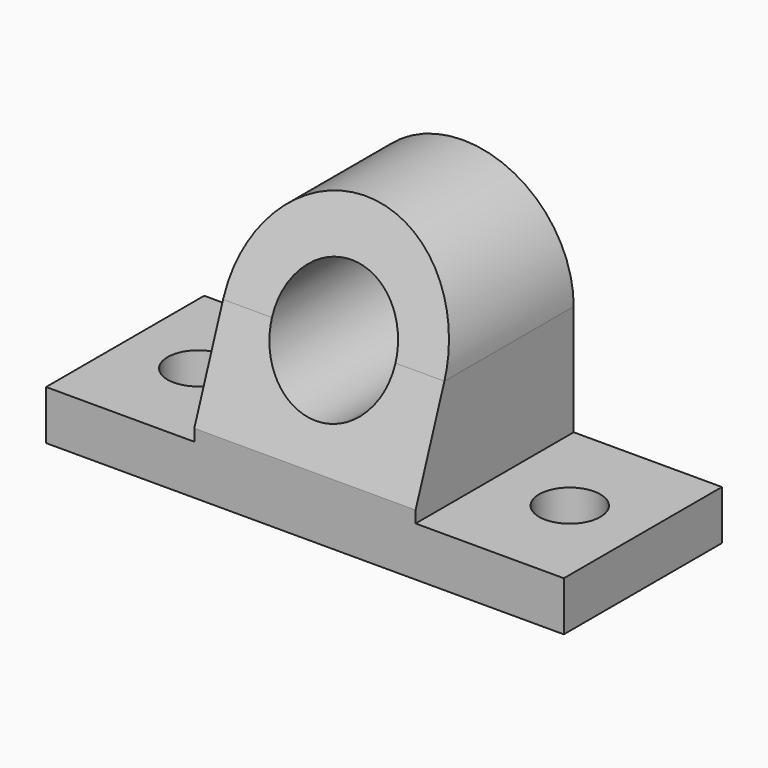
from build123d import *

# Parameters (mm, degrees)
F0_R     = 15.875
F1_DEPTH = 50.8
F2_R     = 7.874
F3_DEPTH = 12.7
F5_DEPTH = 76.2
F6_ANGLE = 180


with BuildPart() as f1:
    # F0 (on Front) → F1 (new body)
    with BuildSketch(Plane.XZ):
        Polygon((66.548, -6.35), (66.548, 6.35), (28.448, 6.35), (-28.448, 6.35), (-66.548, 6.35), (-66.548, -6.35), (-28.448, -6.35), (28.448, -6.35), align=None)
        with BuildLine():
            Line((-28.448, 6.35), (28.448, 6.35))
            Line((28.448, 6.35), (28.448, 34.798))
            ThreePointArc((28.448, 34.798), (0, 63.246), (-28.448, 34.798))
            Line((-28.448, 34.798), (-28.448, 6.35))
        make_face()
        with Locations((0, 34.798)):
            Circle(F0_R, mode=Mode.SUBTRACT)
    extrude(amount=F1_DEPTH)

    # F2 (on face) → F3 (cut)
    with BuildSketch(Plane.XY.offset(6.35)):
        with Locations((47.752, -25.4)):
            Circle(F2_R)
        with Locations((-47.752, -25.4)):
            Circle(F2_R)
    extrude(amount=-F3_DEPTH, mode=Mode.SUBTRACT)

    # F4 (on face) → F5 (cut)
    with BuildSketch(Plane(origin=(-28.448, 0, 0), x_dir=(0, -1, 0), z_dir=(-1, 0, 0))):
        Polygon((0, 64.1047875036), (0, 34.798), (9.2448439504, 34.798), (19.9116422636, 64.1047875036), align=None)
        Polygon((0, 34.798), (0, 9.398), (9.2448439504, 34.798), align=None)
    extrude(amount=-F5_DEPTH, mode=Mode.SUBTRACT)


with BuildPart() as f1_1:
    # F6: moved
    add(f1.part.rotate(Axis((66.548, -50.8, 0), (0, 0, -1)), F6_ANGLE))


solid = f1_1.part
